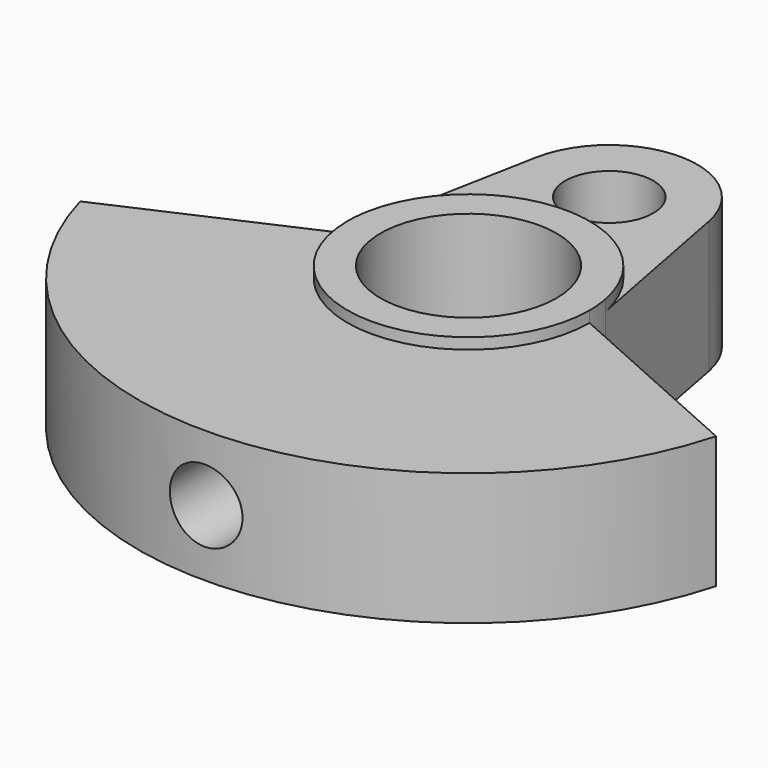
from build123d import *

# Parameters (mm, degrees)
F0_R     = 4
F2_DEPTH = 6.5
F0_R_2   = 2
F3_DEPTH = 6
F5_D     = 3.3
F5_DEPTH = 15
F5_TIP   = 0.9914200214


with BuildPart() as f2:
    # F0 (on Top) → F2 (new body)
    with BuildSketch(Plane.XY):
        with BuildLine():
            ThreePointArc((-5.5, 0), (0, -5.5), (5.5, 0))
            ThreePointArc((5.5, 0), (5.4755595256, 0.5179265218), (5.4024553156, 1.03125))
            ThreePointArc((5.4024553156, 1.03125), (0, 5.5), (-5.4024553156, 1.03125))
            ThreePointArc((-5.4024553156, 1.03125), (-5.4755595256, 0.5179265218), (-5.5, 0))
        make_face()
        Circle(F0_R, mode=Mode.SUBTRACT)
    extrude(amount=F2_DEPTH)

    # F0 (on Top) → F3 (join)
    with BuildSketch(Plane.XY):
        with BuildLine():
            ThreePointArc((-5.4024553156, 1.03125), (0, 5.5), (5.4024553156, 1.03125))
            Line((5.4024553156, 1.03125), (3.9290584114, 8.75))
            ThreePointArc((3.9290584114, 8.75), (0, 12), (-3.9290584114, 8.75))
            Line((-3.9290584114, 8.75), (-5.4024553156, 1.03125))
        make_face()
        with Locations((0, 8)):
            Circle(F0_R_2, mode=Mode.SUBTRACT)
        with BuildLine():
            Line((14.4568322948, -4), (5.5, 0))
            ThreePointArc((5.5, 0), (0, -5.5), (-5.5, 0))
            Line((-5.5, 0), (-14.4568322948, -4))
            ThreePointArc((-14.4568322948, -4), (0, -15), (14.4568322948, -4))
        make_face()
    extrude(amount=F3_DEPTH)

    # F5
    with Locations(Plane.XZ.offset(15)):
        with Locations((0, 3)):
            Hole(F5_D / 2, depth=F5_DEPTH)
            with Locations((0, 0, -(F5_DEPTH + F5_TIP / 2))):  # 118° drill point
                Cone(0, F5_D / 2, F5_TIP, mode=Mode.SUBTRACT)


solid = f2.part
